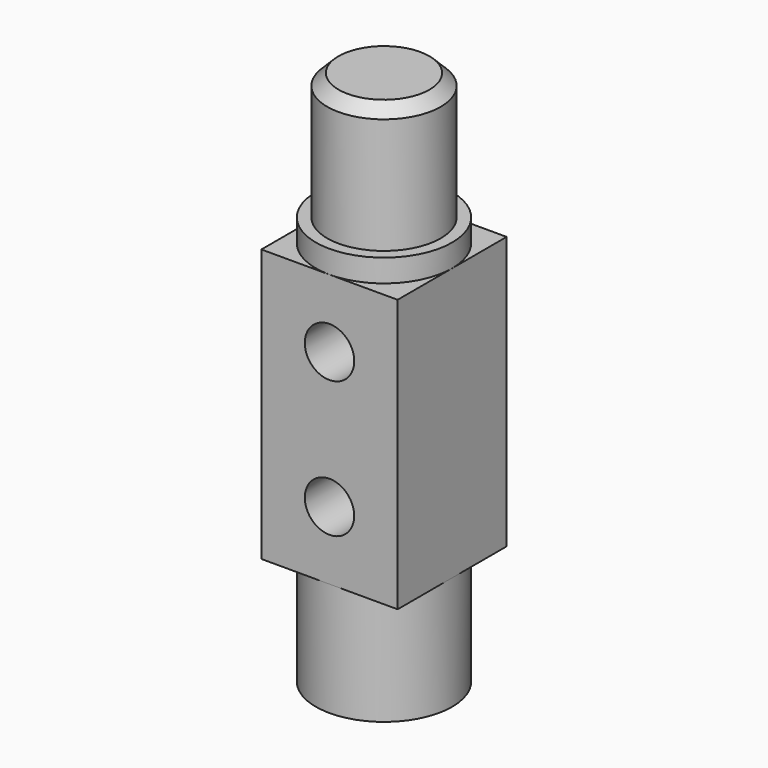
from build123d import *

# Parameters (mm, degrees)
F0_R      = 4.7625
F1_DEPTH  = 1.5875
F2_R      = 3.96875
F3_DEPTH  = 8.89
F4_W      = 9.525
F4_H      = 9.525
F5_DEPTH  = 19.05
F6_SIZE   = 0.79375
F7_R      = 4.7625
F7_R_2    = 2.38125
F8_DEPTH  = 7.9375
F9_R      = 1.7272
F10_DEPTH = 9.525
F11_R     = 1.7272
F12_DEPTH = 4.1232527964


with BuildPart() as f1:
    # F0 (on Top) → F1 (new body)
    with BuildSketch(Plane.XY):
        Circle(F0_R)
    extrude(amount=F1_DEPTH)

    # F2 (on face) → F3 (join)
    with BuildSketch(Plane.XY.offset(1.5875)):
        Circle(F2_R)
    extrude(amount=F3_DEPTH)

    # F4 (on face) → F5 (join)
    with BuildSketch(Plane(origin=(0, 0, 0), x_dir=(1, 0, 0), z_dir=(0, 0, -1))):
        Rectangle(F4_W, F4_H)
    extrude(amount=F5_DEPTH)

    # F6
    f6_edges = [f1.edges().sort_by_distance(p)[0] for p in [
        (-3.96875, 0, 10.4775),
    ]]
    chamfer(f6_edges, length=F6_SIZE)

    # F7 (on face) → F8 (join)
    with BuildSketch(Plane(origin=(0, 0, -19.05), x_dir=(1, 0, 0), z_dir=(0, 0, -1))):
        Circle(F7_R)
        Circle(F7_R_2, mode=Mode.SUBTRACT)
    extrude(amount=F8_DEPTH)

    # F9 (on face) → F10 (cut, through all)
    with BuildSketch(Plane(origin=(0, 4.7625, 0), x_dir=(-1, 0, 0), z_dir=(0, 1, 0))):
        with Locations((0, -4.7625)):
            Circle(F9_R)
        with Locations((0, -14.2875)):
            Circle(F9_R)
    extrude(amount=-F10_DEPTH, mode=Mode.SUBTRACT)

    # F11 (on face) → F12 (cut, up to face)
    with BuildSketch(Plane(origin=(0, 4.7625, 0), x_dir=(-1, 0, 0), z_dir=(0, 1, 0))):
        with Locations((0, -23.01875)):
            Circle(F11_R)
    extrude(amount=-F12_DEPTH, mode=Mode.SUBTRACT)


solid = f1.part
